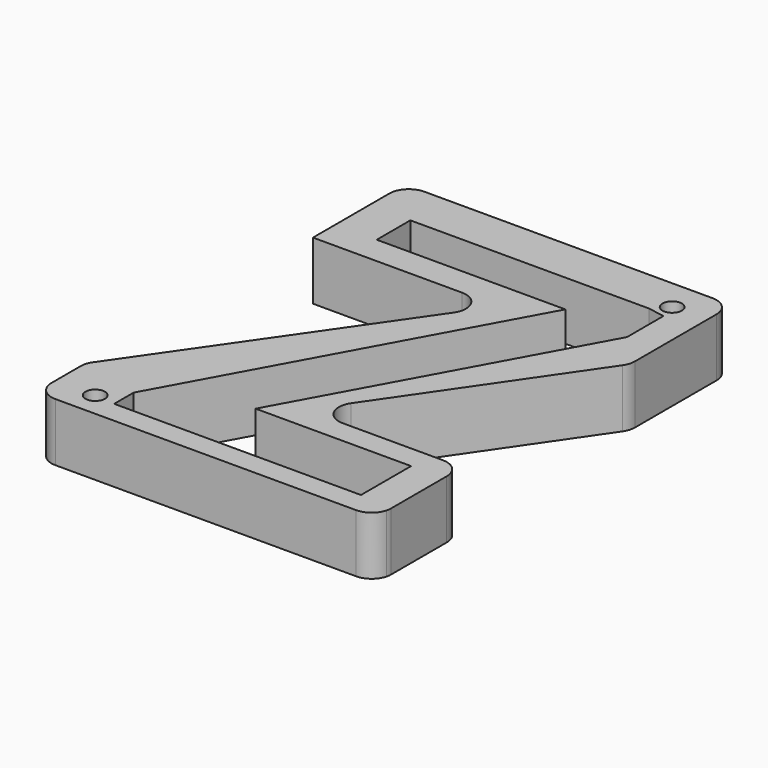
from build123d import *

# Parameters (mm, degrees)
F1_DEPTH = 19.05
F3_DEPTH = 25.4
F5_DEPTH = 19.051


with BuildPart() as f1:
    # F0 (on Top) → F1 (new body)
    with BuildSketch(Plane.XY):
        with BuildLine():
            Line((14.9550589674, 50.2520292753), (-54.5516210822, 50.2520292753))
            Line((-54.5516210822, 50.2520292753), (-54.5516210822, 38.1094498451))
            Line((-54.5516210822, 38.1094498451), (-5.7937513614, 38.1094498451))
            ThreePointArc((-5.7937513614, 38.1094498451), (-0.1681561255, 34.7048153982), (-0.5750318579, 28.1417894487))
            Line((-0.5750318579, 28.1417894487), (-17.6851839396, 3.4592392383))
            Line((-17.6851839396, 3.4592392383), (14.9550589674, 50.2520292753))
        make_face()
        with BuildLine():
            ThreePointArc((-48.2016210822, 75.7045095678), (-52.6917491428, 73.8446376283), (-54.5516210822, 69.3545095678))
            Line((-54.5516210822, 69.3545095678), (-54.5516210822, 50.2520292753))
            Line((-54.5516210822, 50.2520292753), (14.9550589674, 50.2520292753))
            Line((14.9550589674, 50.2520292753), (-17.6851839396, 3.4592392383))
            Line((-17.6851839396, 3.4592392383), (-55.3482900739, -50.8723355951))
            ThreePointArc((-55.3482900739, -50.8723355951), (-56.1901550656, -52.5947874076), (-56.4795705704, -54.4899959914))
            Line((-56.4795705704, -54.4899959914), (-56.4795705704, -66.3977798347))
            ThreePointArc((-56.4795705704, -66.3977798347), (-54.6196986309, -70.8879078953), (-50.1295705704, -72.7477798347))
            Line((-50.1295705704, -72.7477798347), (48.2686518641, -72.7477798347))
            ThreePointArc((48.2686518641, -72.7477798347), (52.1466655513, -71.4260508936), (54.4102909159, -68.0110900211))
            Line((54.4102909159, -68.0110900211), (54.4102909159, -46.6400994718))
            Line((54.4102909159, -46.6400994718), (-18.9196563035, -46.6400994718))
            Line((-18.9196563035, -46.6400994718), (52.4497096213, 55.9125908699))
            Line((52.4497096213, 55.9125908699), (52.4497096213, 69.3545095678))
            ThreePointArc((52.4497096213, 69.3545095678), (50.5898376818, 73.8446376283), (46.0997096213, 75.7045095678))
            Line((46.0997096213, 75.7045095678), (-48.2016210822, 75.7045095678))
        make_face()
        with BuildLine():
            Line((52.4497096213, 35.9703072308), (52.4497096213, 55.9125908699))
            Line((52.4497096213, 55.9125908699), (-18.9196563035, -46.6400994718))
            Line((-18.9196563035, -46.6400994718), (54.4102909159, -46.6400994718))
            Line((54.4102909159, -46.6400994718), (54.4102909159, -68.0110900211))
            ThreePointArc((54.4102909159, -68.0110900211), (54.5663462033, -67.2111346224), (54.6186518641, -66.3977798347))
            Line((54.6186518641, -66.3977798347), (54.6186518641, -43.6716623549))
            ThreePointArc((54.6186518641, -43.6716623549), (52.7587799247, -39.1815342944), (48.2686518641, -37.3216623549))
            Line((48.2686518641, -37.3216623549), (15.5238411508, -37.3216623549))
            ThreePointArc((15.5238411508, -37.3216623549), (9.9045362797, -33.929011297), (10.2897481379, -27.3762805487))
            Line((10.2897481379, -27.3762805487), (51.3338026341, 32.3749254245))
            ThreePointArc((51.3338026341, 32.3749254245), (52.1643196925, 34.0880201421), (52.4497096213, 35.9703072308))
        make_face()
    extrude(amount=F1_DEPTH)

    # F2 (on face) → F3 (cut)
    with BuildSketch(Plane.XY.offset(19.05)):
        with BuildLine():
            ThreePointArc((44.2737464547, 65.4060840012), (44.0664205154, 66.5345943774), (43.4715192615, 67.5157224079))
            ThreePointArc((43.4715192615, 67.5157224079), (38.1310723939, 64.2775736249), (44.2737464547, 65.4060840012))
        make_face()
        with BuildLine():
            ThreePointArc((-40.3262716085, -64.7502714978), (-44.2935384673, -61.6757084029), (-46.2808783641, -66.2846805972))
            ThreePointArc((-46.2808783641, -66.2846805972), (-42.7090047498, -67.8248345927), (-40.3262716085, -64.7502714978))
        make_face()
    extrude(amount=-F3_DEPTH, mode=Mode.SUBTRACT)

    # F4 (on face) → F5 (cut, through all)
    with BuildSketch(Plane.XY.offset(19.05)):
        Polygon((42.4659381227, 60.1279996336), (36.9925759733, 61.0919743776), (-41.0894751549, 61.0919743776), (-41.0894751549, 47.3553165793), (20.6049866974, 47.3553165793), (-36.7515794933, -57.4770644307), (-36.7515794933, -65.4298663139), (43.9813993871, -65.4298663139), (43.9813993871, -44.9453778565), (-6.8683284335, -44.9453778565), (42.4659381227, 45.2243964511), align=None)
    extrude(amount=-F5_DEPTH, mode=Mode.SUBTRACT)


solid = f1.part
